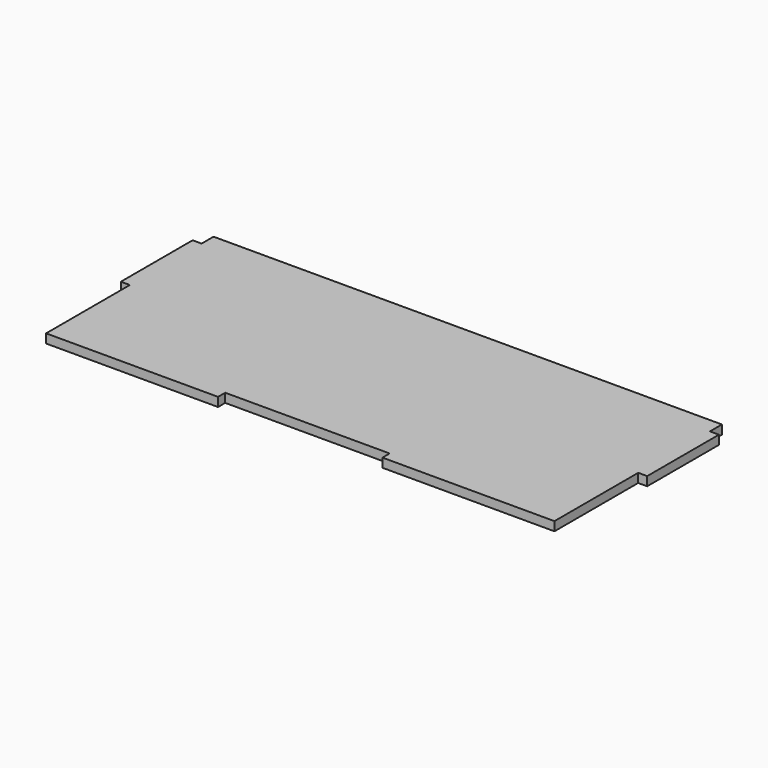
from build123d import *

# Parameters (mm, degrees)
F0_W     = 3
F0_H     = 30
F1_DEPTH = 3


with BuildPart() as f1:
    # F0 (on Top) → F1 (new body)
    with BuildSketch(Plane.XY):
        with Locations((86.5, 15)):
            Rectangle(F0_W, F0_H)
        with Locations((-86.5, 15)):
            Rectangle(F0_W, F0_H)
        Polygon((85, 30), (85, 35), (-85, 35), (-85, 30), (-85, 0), (-85, -35), (-27.5, -35), (-27.5, -32), (27.5, -32), (27.5, -35), (85, -35), (85, 0), align=None)
    extrude(amount=F1_DEPTH)


solid = f1.part
